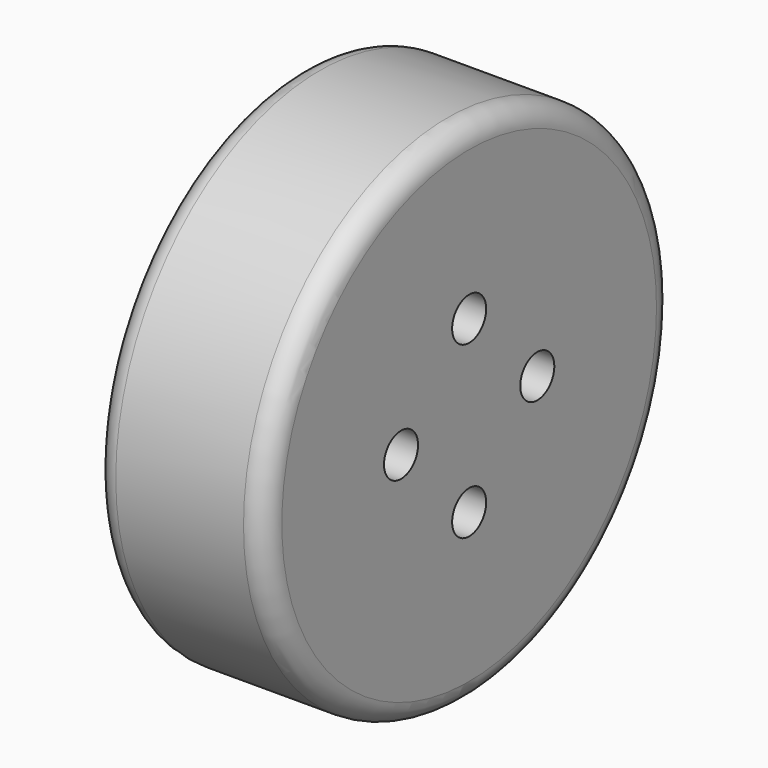
from build123d import *

# Parameters (mm, degrees)
F0_R     = 6
F0_R_2   = 0.5
F1_DEPTH = 4
F2_R     = 0.5


with BuildPart() as f1:
    # F0 (on Right) → F1 (new body)
    with BuildSketch(Plane.YZ):
        Circle(F0_R)
        with Locations((0, -2)):
            Circle(F0_R_2, mode=Mode.SUBTRACT)
        with Locations((-2, 0)):
            Circle(F0_R_2, mode=Mode.SUBTRACT)
        with Locations((2, 0)):
            Circle(F0_R_2, mode=Mode.SUBTRACT)
        with Locations((0, 2)):
            Circle(F0_R_2, mode=Mode.SUBTRACT)
    extrude(amount=F1_DEPTH)

    # F2
    f2_edges = [f1.edges().sort_by_distance(p)[0] for p in [
        (4, -6, 0),
        (0, -6, 0),
    ]]
    fillet(f2_edges, radius=F2_R)


solid = f1.part
